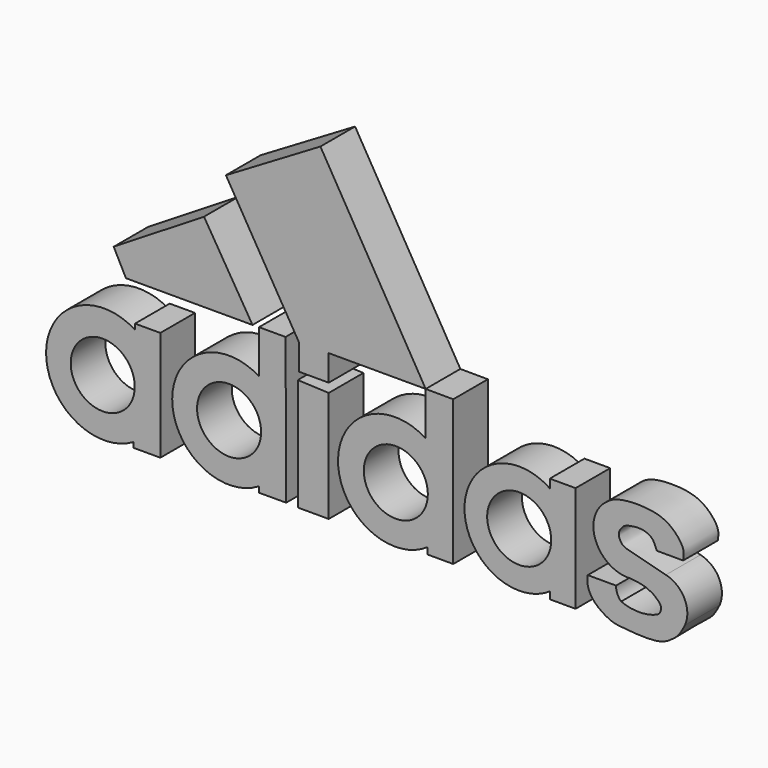
from build123d import *

# Parameters (mm, degrees)
F1_DEPTH = 5.08
F0_R     = 3.7538373981


with BuildPart() as f1:
    # F0 (on Front) → F1 (new body)
    with BuildSketch(Plane.XZ):
        Polygon((-35.4193560779, 0), (-46.0087582469, -6.5453746356), (-44.5702800546, -9.3264291063), (-29.7320385329, -9.3264291063), align=None)
    extrude(amount=F1_DEPTH)


with BuildPart() as f1b:
    # F0 (on Front) → F1, piece 2 (new body)
    with BuildSketch(Plane.XZ):
        Polygon((-20.7957308739, -13.4374247864), (-24.4261976331, -13.2861547172), (-24.4261976331, -26.4465939254), (-20.7957308739, -26.4465939254), align=None)
    extrude(amount=F1_DEPTH)


with BuildPart() as f1c:
    # F0 (on Front) → F1, piece 3 (new body)
    with BuildSketch(Plane.XZ):
        with BuildLine():
            add(Edge.make_bspline(
                [(20.7620002329, -17.2191361961), (20.8072727639, -16.8563093212), (20.9972345535, -15.9582499737), (19.4142520572, -14.007102602), (17.1088858085, -13.0550807236), (12.8312386114, -13.137547353), (11.777222385, -14.0693074001), (11.3386176527, -14.4538888708)],
                knots=[0, 0, 0, 0, 0.1426258855, 0.3402628508, 0.5529546626, 0.8192153992, 1, 1, 1, 1], degree=3))
            ThreePointArc((11.3386176527, -14.4538888708), (10.3859706919, -16.0456099138), (10.3123616427, -17.8991723806))
            ThreePointArc((10.3123616427, -17.8991723806), (11.8788420686, -20.2823297917), (14.6159762517, -21.083202213))
            add(Edge.make_bspline(
                [(14.6159762517, -21.083202213), (15.0039163067, -21.1453609503), (16.0043313157, -21.2129036743), (16.7959558011, -21.5836238263), (17.2771770943, -21.8291235959), (17.6796861205, -22.1913385939), (17.9065701329, -22.3787523433), (18.0092714727, -22.517317906)],
                knots=[0, 0, 0, 0, 0.2772850418, 0.4981757712, 0.6686560416, 0.8384583572, 1, 1, 1, 1], degree=3))
            ThreePointArc((18.0092714727, -22.517317906), (18.1354842373, -23.2431646305), (17.6717407787, -23.8156374544))
            ThreePointArc((17.6717407787, -23.8156374544), (15.5790164959, -24.2269686024), (13.4862922132, -23.8156374544))
            ThreePointArc((13.4862922132, -23.8156374544), (13.0376674048, -23.1521941948), (12.8897940501, -22.3650762568))
            Line((12.8897940501, -22.3650762568), (9.569176693, -22.3650762568))
            add(Edge.make_bspline(
                [(9.569176693, -22.3650762568), (9.5361497862, -22.6772252023), (9.4524468653, -23.4559209414), (10.231733471, -25.0315592148), (12.2911542795, -26.3031608631), (13.5748731983, -26.4278250015), (17.7011171683, -26.847175168), (19.0651818481, -26.0739997387), (19.2637275904, -25.8809141815)],
                knots=[0, 0, 0, 0, 0.1218054151, 0.2789918956, 0.4596472248, 0.6020193053, 0.8467697484, 1, 1, 1, 1], degree=3))
            add(Edge.make_bspline(
                [(19.2637275904, -25.8809141815), (19.5658528496, -25.681008759), (20.2303288514, -25.241348877), (20.711178218, -24.3187482231), (20.9733940461, -23.8156374544)],
                knots=[0, 0, 0, 0, 0.4546819726, 1, 1, 1, 1], degree=3))
            ThreePointArc((20.9733940461, -23.8156374544), (20.898861515, -21.0606348014), (18.7283706874, -19.362234294))
            add(Edge.make_bspline(
                [(18.7283706874, -19.362234294), (18.3052221446, -19.2454177359), (17.3465319172, -18.9807828356), (15.2853598147, -18.476270678), (13.6934778991, -18.0951068109), (13.3382544883, -17.4914174359), (13.0869415617, -16.7805254227), (13.6425426453, -16.0415724969), (14.0256014445, -15.7577248311), (15.2913806307, -15.5033570912), (16.3332392912, -15.6038072113), (17.1883368221, -16.0725065084), (17.5126857245, -16.8202796174), (17.6196698386, -17.1023734287), (17.6717407787, -17.2191361961)],
                knots=[0, 0, 0, 0, 0.1006907781, 0.2266515058, 0.3326625833, 0.3997628616, 0.4701676224, 0.5473676774, 0.6065693887, 0.7006658095, 0.7890167461, 0.8703441811, 0.9451782391, 1, 1, 1, 1], degree=3))
            Line((17.6717407787, -17.2191361961), (20.7620002329, -17.2191361961))
        make_face()
    extrude(amount=F1_DEPTH)


with BuildPart() as f1d:
    # F0 (on Front) → F1, piece 4 (new body)
    with BuildSketch(Plane.XZ):
        Polygon((-21.772207953, 11.6795980458), (-32.8522287309, 5.1136612892), (-24.2951400578, -9.3264291063), (-20.7957308739, -9.3264291063), (-9.4271954149, -9.3264291063), align=None)
        Polygon((-20.7957308739, -9.3264291063), (-24.2951400578, -9.3264291063), (-24.2749284953, -12.3785389587), (-20.7957308739, -12.3785389587), align=None)
    extrude(amount=F1_DEPTH)


with BuildPart() as f1e:
    # F0 (on Front) → F1, piece 5 (new body)
    with BuildSketch(Plane.XZ):
        with BuildLine():
            Line((-43.5080304742, -13.6637622491), (-43.5080304742, -14.3139054999))
            ThreePointArc((-43.5080304742, -14.3139054999), (-53.9360326233, -19.9770668695), (-43.6813160777, -25.9482823312))
            Line((-43.6813160777, -25.9482823312), (-43.6813160777, -26.5446212143))
            Line((-43.6813160777, -26.5446212143), (-40.5400656164, -26.5446212143))
            Line((-40.5400656164, -26.5446212143), (-40.5400656164, -13.6637622491))
            Line((-40.5400656164, -13.6637622491), (-43.5080304742, -13.6637622491))
        make_face()
        with Locations((-47.2937338054, -20.1990362257)):
            Circle(F0_R, mode=Mode.SUBTRACT)
    extrude(amount=F1_DEPTH)


with BuildPart() as f1f:
    # F0 (on Front) → F1, piece 6 (new body)
    with BuildSketch(Plane.XZ):
        with BuildLine():
            Line((-28.9690925023, -9.3052648008), (-28.9690925023, -14.3798987605))
            ThreePointArc((-28.9690925023, -14.3798987605), (-39.1494319925, -20.0484505957), (-28.9738103747, -25.7254671305))
            Line((-28.9738103747, -25.7254671305), (-28.9738103747, -26.4002234317))
            Line((-28.9738103747, -26.4002234317), (-28.6721715531, -26.4002234317))
            Line((-28.6721715531, -26.4002234317), (-25.7797478715, -26.3865933846))
            Line((-25.7797478715, -26.3865933846), (-25.860240683, -9.3052648008))
            Line((-25.860240683, -9.3052648008), (-28.9690925023, -9.3052648008))
        make_face()
        with Locations((-32.4795544147, -20.0512241572)):
            Circle(F0_R, mode=Mode.SUBTRACT)
    extrude(amount=F1_DEPTH)


with BuildPart() as f1g:
    # F0 (on Front) → F1, piece 7 (new body)
    with BuildSketch(Plane.XZ):
        with BuildLine():
            Line((-6.1985242487, -9.3412151397), (-9.4271954149, -9.3264291063))
            Line((-9.4271954149, -9.3264291063), (-9.4505250454, -14.4206760451))
            ThreePointArc((-9.4505250454, -14.4206760451), (-19.703495851, -20.2107797198), (-9.2364614829, -25.6042852998))
            Line((-9.2364614829, -25.6042852998), (-9.2380829155, -26.3478271663))
            Line((-9.2380829155, -26.3478271663), (-6.1985242487, -26.3478271663))
            Line((-6.1985242487, -26.3478271663), (-6.1985242487, -9.3412151397))
        make_face()
        with Locations((-12.9307592288, -20.1167901978)):
            Circle(F0_R, mode=Mode.SUBTRACT)
    extrude(amount=F1_DEPTH)


with BuildPart() as f1h:
    # F0 (on Front) → F1, piece 8 (new body)
    with BuildSketch(Plane.XZ):
        with BuildLine():
            Line((5.1207156486, -14.4008146599), (5.1207156486, -14.8542305873))
            ThreePointArc((5.1207156486, -14.8542305873), (-4.8791269628, -20.1930324208), (5.1504089497, -25.4758410156))
            Line((5.1504089497, -25.4758410156), (5.1207156486, -26.3085495681))
            Line((5.1207156486, -26.3085495681), (8.1453863531, -26.3085495681))
            Line((8.1453863531, -26.3085495681), (8.1453863531, -13.8509906828))
            Line((8.1453863531, -13.8509906828), (5.1207156486, -13.8509906828))
            Line((5.1207156486, -13.8509906828), (5.1207156486, -14.4008146599))
        make_face()
        with Locations((1.5363817802, -20.1750975102)):
            Circle(F0_R, mode=Mode.SUBTRACT)
    extrude(amount=F1_DEPTH)


solid = Compound([f1.part, f1b.part, f1c.part, f1d.part, f1e.part, f1f.part, f1g.part, f1h.part])
